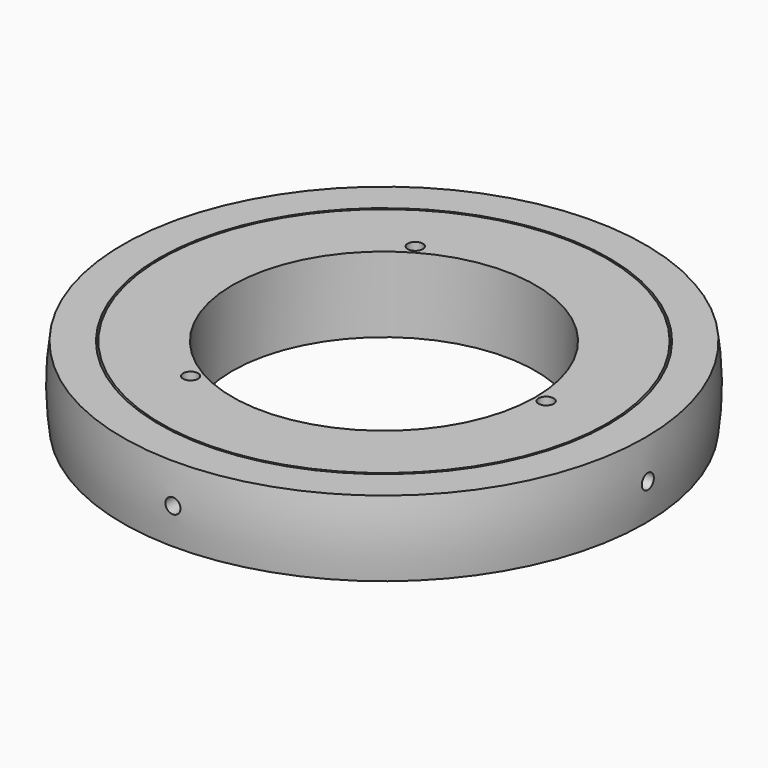
from build123d import *

# Parameters (mm, degrees)
BOX003_W             = 150
BOX003_H             = 150
BOX003_DEPTH         = 75
BOX002_W             = 150
BOX002_H             = 150
BOX002_DEPTH         = 75
SKETCH001_R          = 2
POCKET001_DEPTH      = 70.001
POCKET001_DEPTH_BACK = 70.001
SKETCH002_R          = 2
POCKET002_DEPTH      = 70.001
POCKET002_DEPTH_BACK = 70.001
BOX001_W             = 150
BOX001_H             = 150
BOX001_DEPTH         = 75
BOX_W                = 150
BOX_H                = 150
BOX_DEPTH            = 75
CYLINDER_R           = 40.2
CYLINDER_DEPTH       = 100
SKETCH_R             = 2
POCKET_DEPTH         = 351.76115
POCKET_DEPTH_BACK    = 351.76115
POLARPATTERN_COUNT   = 3


with BuildPart() as obj1:
    # Box003 → Box003 (new body)
    with BuildSketch(Plane(origin=(-75, -75, -85), x_dir=(1, 0, 0), z_dir=(0, 0, 1))):
        with Locations((75, 75)):
            Rectangle(BOX003_W, BOX003_H)
    extrude(amount=BOX003_DEPTH)


with BuildPart() as obj2:
    # Box002 → Box002 (new body)
    with BuildSketch(Plane(origin=(-75, -75, 10), x_dir=(1, 0, 0), z_dir=(0, 0, 1))):
        with Locations((75, 75)):
            Rectangle(BOX002_W, BOX002_H)
    extrude(amount=BOX002_DEPTH)


with BuildPart() as trou001:
    # Sphere002 → Sphere002 (revolve)
    with BuildSketch(Plane.XZ):
        with BuildLine():
            ThreePointArc((0, -60.5), (60.5, 0), (0, 60.5))
            Line((0, 60.5), (0, -60.5))
        make_face()
    revolve(axis=Axis((0, 0, 0), (0, 0, 1)))


with BuildPart() as corps:
    # Sphere001 → Sphere001 (revolve)
    with BuildSketch(Plane.XZ):
        with BuildLine():
            ThreePointArc((0, -70), (70, 0), (0, 70))
            Line((0, 70), (0, -70))
        make_face()
    revolve(axis=Axis((0, 0, 0), (0, 0, 1)))

    # Cut003: cut Trou001
    add(trou001.part, mode=Mode.SUBTRACT)

    # Cut004: cut obj2
    add(obj2.part, mode=Mode.SUBTRACT)

    # Cut005: cut obj1
    add(obj1.part, mode=Mode.SUBTRACT)

    # Sketch001 → Pocket001 (cut, two sides)
    with BuildSketch(Plane.YZ) as pocket001_sk:
        Circle(SKETCH001_R)
    extrude(amount=-POCKET001_DEPTH, mode=Mode.SUBTRACT)
    extrude(pocket001_sk.sketch, amount=POCKET001_DEPTH_BACK, mode=Mode.SUBTRACT)

    # Sketch002 → Pocket002 (cut, two sides)
    with BuildSketch(Plane.XZ) as pocket002_sk:
        Circle(SKETCH002_R)
    extrude(amount=-POCKET002_DEPTH, mode=Mode.SUBTRACT)
    extrude(pocket002_sk.sketch, amount=POCKET002_DEPTH_BACK, mode=Mode.SUBTRACT)


with BuildPart() as obj3:
    # Box001 → Box001 (new body)
    with BuildSketch(Plane(origin=(-75, -75, -85), x_dir=(1, 0, 0), z_dir=(0, 0, 1))):
        with Locations((75, 75)):
            Rectangle(BOX001_W, BOX001_H)
    extrude(amount=BOX001_DEPTH)


with BuildPart() as d_coupe_haute:
    # Box → Box (new body)
    with BuildSketch(Plane(origin=(-75, -75, 10), x_dir=(1, 0, 0), z_dir=(0, 0, 1))):
        with Locations((75, 75)):
            Rectangle(BOX_W, BOX_H)
    extrude(amount=BOX_DEPTH)


with BuildPart() as trou:
    # Cylinder → Cylinder (new body)
    with BuildSketch(Plane.XY.offset(-50)):
        Circle(CYLINDER_R)
    extrude(amount=CYLINDER_DEPTH)


with BuildPart() as corps001:
    # Sphere → Sphere (revolve)
    with BuildSketch(Plane.XZ):
        with BuildLine():
            ThreePointArc((0, -60), (60, 0), (0, 60))
            Line((0, 60), (0, -60))
        make_face()
    revolve(axis=Axis((0, 0, 0), (0, 0, 1)))

    # Cut: cut Trou
    add(trou.part, mode=Mode.SUBTRACT)

    add(d_coupe_haute.part, mode=Mode.SUBTRACT)

    # Cut002: cut obj3
    add(obj3.part, mode=Mode.SUBTRACT)

    # Sketch → Pocket (cut, two sides)
    with BuildSketch(Plane(origin=(43, 0, 0), x_dir=(1, 0, 0), z_dir=(0, 0, 1))) as pocket_sk:
        Circle(SKETCH_R)
    pocket = extrude(amount=-POCKET_DEPTH, mode=Mode.SUBTRACT) + extrude(pocket_sk.sketch, amount=POCKET_DEPTH_BACK, mode=Mode.SUBTRACT)

    # PolarPattern: Pocket ×3 about axis
    polarpattern_axis = Axis((0, 0, 0), (0, 0, 1))
    for i in range(1, POLARPATTERN_COUNT):
        add(pocket.rotate(polarpattern_axis, i * 360 / POLARPATTERN_COUNT), mode=Mode.SUBTRACT)


solid = Compound([corps.part, corps001.part])
